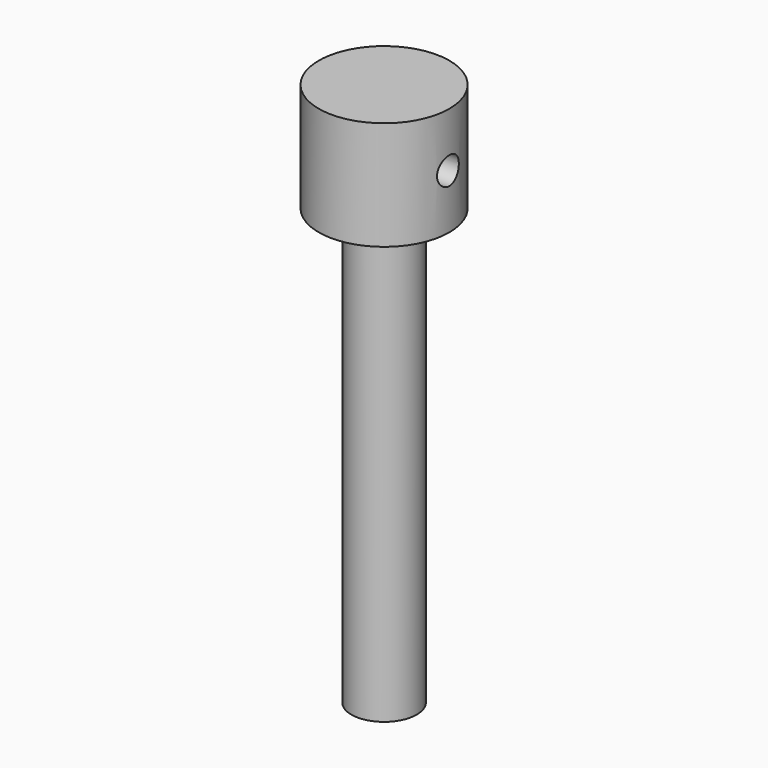
from build123d import *

# Parameters (mm, degrees)
F2_R     = 2.5
F3_DEPTH = 12.5


with BuildPart() as f1:
    # F0 (on Front) → F1 (revolve)
    with BuildSketch(Plane.XZ):
        Polygon((0, 100), (0, 0), (6, 0), (6, 80), (12, 80), (12, 100), align=None)
    revolve(axis=Axis((0, 0, 50), (0, 0, 1)))

    # F2 (on Right) → F3 (cut, symmetric)
    with BuildSketch(Plane.YZ):
        with Locations((0, 90)):
            Circle(F2_R)
    extrude(amount=F3_DEPTH, both=True, mode=Mode.SUBTRACT)


solid = f1.part
